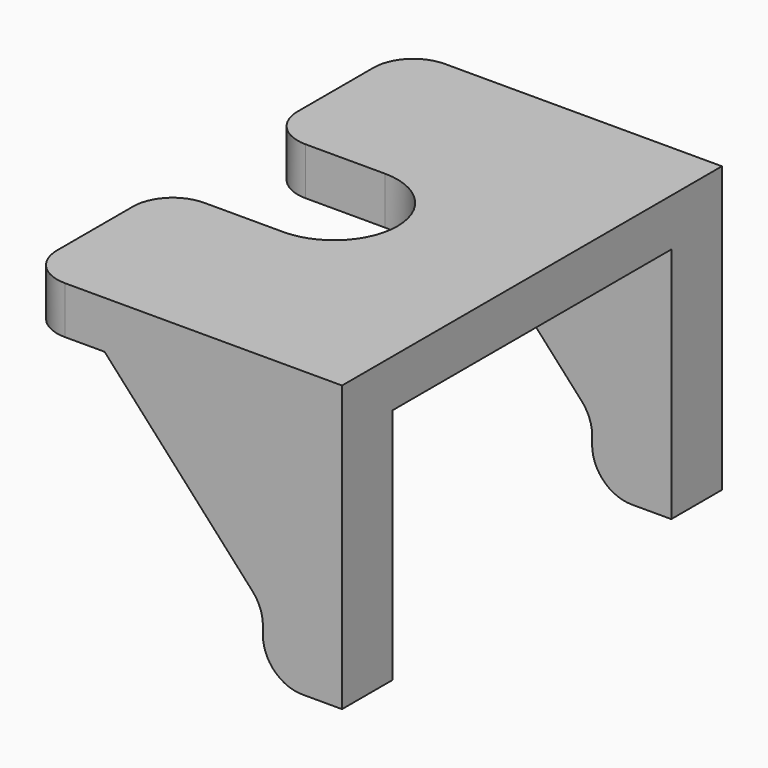
from build123d import *

# Parameters (mm, degrees)
PAD040_DEPTH            = 1.2
PAD041_DEPTH            = 1.6
LINEARPATTERN003_COUNT  = 2
LINEARPATTERN003_PITCH  = 10.4
FILLET009_R             = 1
FILLET010_R             = 1
FILLET011_R             = 1
BODY013_PLACEMENT_ANGLE = 180


with BuildPart() as part:
    # Sketch072 → Pad040 (new body)
    with BuildSketch(Plane.XY):
        with BuildLine():
            Line((-4, 6), (4, 6))
            Line((4, 6), (4, 1.6))
            Line((1, 1.6), (4, 1.6))
            ThreePointArc((1, 1.6), (-0.6, 0), (1, -1.6))
            Line((4, -1.6), (1, -1.6))
            Line((4, -1.6), (4, -6))
            Line((4, -6), (-4, -6))
            Line((-4, -6), (-4, 6))
        make_face()
    extrude(amount=PAD040_DEPTH)

    # Sketch073 (on DatumPlane) → Pad041 (join)
    with BuildSketch(Plane.XZ.offset(6)):
        Polygon((-4, 0), (-4, -6), (-2, -6), (-2, -4.4), (2, 0), align=None)
    pad041 = extrude(amount=-PAD041_DEPTH)

    # LinearPattern003: Pad041 ×2
    with Locations(*[(0, i * LINEARPATTERN003_PITCH, 0) for i in range(1, LINEARPATTERN003_COUNT)]):
        add(pad041)

    # Fillet009
    fillet009_edges = [part.edges().sort_by_distance(p)[0] for p in [
        (-2, -5.2, -6),
        (-2, 5.2, -6),
    ]]
    fillet(fillet009_edges, radius=FILLET009_R)

    # Fillet010
    fillet010_edges = [part.edges().sort_by_distance(p)[0] for p in [
        (-2, -5.2, -4.4),
        (-2, 5.2, -4.4),
    ]]
    fillet(fillet010_edges, radius=FILLET010_R)

    # Fillet011
    fillet011_edges = [part.edges().sort_by_distance(p)[0] for p in [
        (4, -6, 0.6),
        (4, -1.6, 0.6),
        (4, 1.6, 0.6),
        (4, 6, 0.6),
    ]]
    fillet(fillet011_edges, radius=FILLET011_R)


with BuildPart() as part_1:
    # Body013 placement: moved
    add(part.part.moved(Location((-62, 53, 34.2))).rotate(Axis((-62, 53, 34.2), (0, 0, 1)), BODY013_PLACEMENT_ANGLE))


solid = part_1.part
